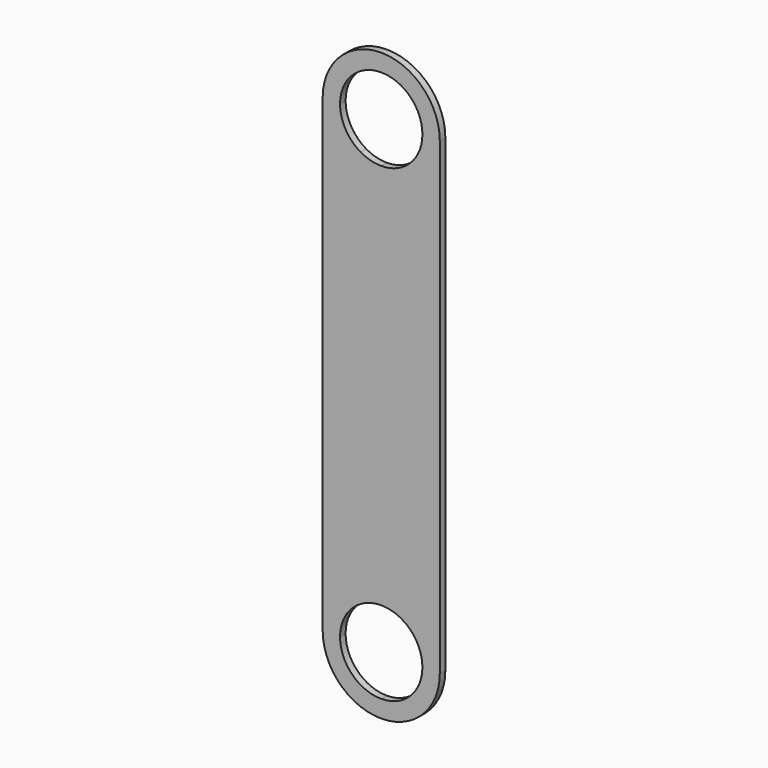
from build123d import *

# Parameters (mm, degrees)
F1_DEPTH = 5.08


with BuildPart() as f1:
    # F0 (on Front) → F1 (new body)
    with BuildSketch(Plane.XZ):
        with BuildLine():
            Line((-30.099, -178.2621852636), (-42.799, -178.2621852636))
            ThreePointArc((-42.799, -178.2621852636), (-30.263463128, -208.5256483916), (0, -221.0611852636))
            Line((0, -221.0611852636), (0, -208.3611852636))
            ThreePointArc((0, -208.3611852636), (-21.2832070069, -199.5453922706), (-30.099, -178.2621852636))
        make_face()
        with BuildLine():
            ThreePointArc((0, -221.0611852636), (30.263463128, -208.5256483916), (42.799, -178.2621852636))
            Line((42.799, -178.2621852636), (30.099, -178.2621852636))
            ThreePointArc((30.099, -178.2621852636), (21.2832070069, -199.5453922706), (0, -208.3611852636))
            Line((0, -208.3611852636), (0, -221.0611852636))
        make_face()
        with BuildLine():
            Line((42.799, 164.6378147364), (30.099, 164.6378147364))
            Line((30.099, 164.6378147364), (30.099, 134.2107774176))
            ThreePointArc((30.099, 134.2107774176), (39.4965916378, 148.1522559045), (42.799, 164.6378147364))
        make_face()
        with BuildLine():
            ThreePointArc((42.799, -178.2621852636), (39.4965916378, -161.7766264317), (30.099, -147.8351479448))
            Line((30.099, -147.8351479448), (30.099, -178.2621852636))
            Line((30.099, -178.2621852636), (42.799, -178.2621852636))
        make_face()
        with BuildLine():
            Line((-30.099, 134.2107774176), (-30.099, 164.6378147364))
            Line((-30.099, 164.6378147364), (-42.799, 164.6378147364))
            ThreePointArc((-42.799, 164.6378147364), (-39.4965916378, 148.1522559045), (-30.099, 134.2107774176))
        make_face()
        with BuildLine():
            Line((-30.099, -178.2621852636), (-30.099, -147.8351479448))
            ThreePointArc((-30.099, -147.8351479448), (-39.4965916378, -161.7766264317), (-42.799, -178.2621852636))
            Line((-42.799, -178.2621852636), (-30.099, -178.2621852636))
        make_face()
        with BuildLine():
            ThreePointArc((15.0495, -138.1964024715), (7.6478416327, -136.1520330511), (0, -135.4631852636))
            Line((0, -135.4631852636), (0, -148.1631852636))
            ThreePointArc((0, -148.1631852636), (7.7901944385, -149.1887838182), (15.0495, -152.1956866351))
            Line((15.0495, -152.1956866351), (15.0495, -138.1964024715))
        make_face()
        with BuildLine():
            Line((0, -148.1631852636), (0, -135.4631852636))
            ThreePointArc((0, -135.4631852636), (-7.6478416327, -136.1520330511), (-15.0495, -138.1964024715))
            Line((-15.0495, -138.1964024715), (-15.0495, -152.1956866351))
            ThreePointArc((-15.0495, -152.1956866351), (-7.7901944385, -149.1887838182), (0, -148.1631852636))
        make_face()
        with BuildLine():
            Line((0, 121.8388147364), (0, 134.5388147364))
            ThreePointArc((0, 134.5388147364), (-7.7901944385, 135.5644132909), (-15.0495, 138.5713161079))
            Line((-15.0495, 138.5713161079), (-15.0495, 124.5720319442))
            ThreePointArc((-15.0495, 124.5720319442), (-7.6478416327, 122.5276625239), (0, 121.8388147364))
        make_face()
        with BuildLine():
            ThreePointArc((15.0495, 138.5713161079), (7.7901944385, 135.5644132909), (0, 134.5388147364))
            Line((0, 134.5388147364), (0, 121.8388147364))
            ThreePointArc((0, 121.8388147364), (7.6478416327, 122.5276625239), (15.0495, 124.5720319442))
            Line((15.0495, 124.5720319442), (15.0495, 138.5713161079))
        make_face()
        with BuildLine():
            ThreePointArc((30.099, 164.6378147364), (26.0664986285, 149.5883147364), (15.0495, 138.5713161079))
            Line((15.0495, 138.5713161079), (15.0495, 124.5720319442))
            ThreePointArc((15.0495, 124.5720319442), (23.0829616089, 128.5971254483), (30.099, 134.2107774176))
            Line((30.099, 134.2107774176), (30.099, 164.6378147364))
        make_face()
        with BuildLine():
            ThreePointArc((30.099, -147.8351479448), (23.0829616089, -142.2214959755), (15.0495, -138.1964024715))
            Line((15.0495, -138.1964024715), (15.0495, -152.1956866351))
            ThreePointArc((15.0495, -152.1956866351), (26.0664986285, -163.2126852636), (30.099, -178.2621852636))
            Line((30.099, -178.2621852636), (30.099, -147.8351479448))
        make_face()
        with BuildLine():
            Line((-15.0495, -152.1956866351), (-15.0495, -138.1964024715))
            ThreePointArc((-15.0495, -138.1964024715), (-23.0829616089, -142.2214959755), (-30.099, -147.8351479448))
            Line((-30.099, -147.8351479448), (-30.099, -178.2621852636))
            ThreePointArc((-30.099, -178.2621852636), (-26.0664986285, -163.2126852636), (-15.0495, -152.1956866351))
        make_face()
        with BuildLine():
            Line((-15.0495, 124.5720319442), (-15.0495, 138.5713161079))
            ThreePointArc((-15.0495, 138.5713161079), (-26.0664986285, 149.5883147364), (-30.099, 164.6378147364))
            Line((-30.099, 164.6378147364), (-30.099, 134.2107774176))
            ThreePointArc((-30.099, 134.2107774176), (-23.0829616089, 128.5971254483), (-15.0495, 124.5720319442))
        make_face()
        with BuildLine():
            Line((-42.799, 164.6378147364), (-30.099, 164.6378147364))
            ThreePointArc((-30.099, 164.6378147364), (-21.2832070069, 185.9210217433), (0, 194.7368147364))
            Line((0, 194.7368147364), (0, 207.4368147364))
            ThreePointArc((0, 207.4368147364), (-30.263463128, 194.9012778644), (-42.799, 164.6378147364))
        make_face()
        with BuildLine():
            ThreePointArc((0, 194.7368147364), (21.2832070069, 185.9210217433), (30.099, 164.6378147364))
            Line((30.099, 164.6378147364), (42.799, 164.6378147364))
            ThreePointArc((42.799, 164.6378147364), (30.263463128, 194.9012778644), (0, 207.4368147364))
            Line((0, 207.4368147364), (0, 194.7368147364))
        make_face()
        with BuildLine():
            ThreePointArc((42.799, 164.6378147364), (39.4965916378, 148.1522559045), (30.099, 134.2107774176))
            Line((30.099, 134.2107774176), (30.099, -147.8351479448))
            ThreePointArc((30.099, -147.8351479448), (39.4965916378, -161.7766264317), (42.799, -178.2621852636))
            Line((42.799, -178.2621852636), (42.799, 164.6378147364))
        make_face()
        with BuildLine():
            Line((-30.099, -147.8351479448), (-30.099, 134.2107774176))
            ThreePointArc((-30.099, 134.2107774176), (-39.4965916378, 148.1522559045), (-42.799, 164.6378147364))
            Line((-42.799, 164.6378147364), (-42.799, -178.2621852636))
            ThreePointArc((-42.799, -178.2621852636), (-39.4965916378, -161.7766264317), (-30.099, -147.8351479448))
        make_face()
        with BuildLine():
            Line((0, -135.4631852636), (0, 121.8388147364))
            ThreePointArc((0, 121.8388147364), (-7.6478416327, 122.5276625239), (-15.0495, 124.5720319442))
            Line((-15.0495, 124.5720319442), (-15.0495, -138.1964024715))
            ThreePointArc((-15.0495, -138.1964024715), (-7.6478416327, -136.1520330511), (0, -135.4631852636))
        make_face()
        with BuildLine():
            ThreePointArc((15.0495, 124.5720319442), (7.6478416327, 122.5276625239), (0, 121.8388147364))
            Line((0, 121.8388147364), (0, -135.4631852636))
            ThreePointArc((0, -135.4631852636), (7.6478416327, -136.1520330511), (15.0495, -138.1964024715))
            Line((15.0495, -138.1964024715), (15.0495, 124.5720319442))
        make_face()
        with BuildLine():
            ThreePointArc((30.099, 134.2107774176), (23.0829616089, 128.5971254483), (15.0495, 124.5720319442))
            Line((15.0495, 124.5720319442), (15.0495, -138.1964024715))
            ThreePointArc((15.0495, -138.1964024715), (23.0829616089, -142.2214959755), (30.099, -147.8351479448))
            Line((30.099, -147.8351479448), (30.099, 134.2107774176))
        make_face()
        with BuildLine():
            Line((-15.0495, -138.1964024715), (-15.0495, 124.5720319442))
            ThreePointArc((-15.0495, 124.5720319442), (-23.0829616089, 128.5971254483), (-30.099, 134.2107774176))
            Line((-30.099, 134.2107774176), (-30.099, -147.8351479448))
            ThreePointArc((-30.099, -147.8351479448), (-23.0829616089, -142.2214959755), (-15.0495, -138.1964024715))
        make_face()
    extrude(amount=F1_DEPTH)


solid = f1.part
